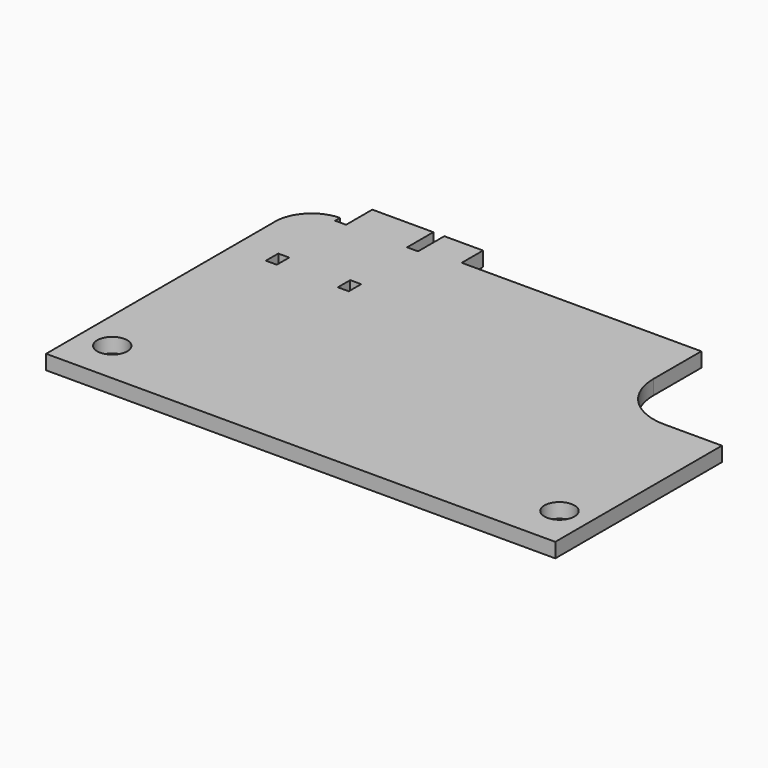
from build123d import *

# Parameters (mm, degrees)
F0_R     = 1.65
F1_DEPTH = 1.6
F2_R     = 4
F3_R     = 6
F4_W     = 1.2
F4_H     = 3.6
F4_H_2   = 1.7
F5_DEPTH = 1.601


with BuildPart() as f1:
    # F0 (on Top) → F1 (new body)
    with BuildSketch(Plane.XY):
        Polygon((0, 35.43), (0, 0), (55.88, 0), (55.88, 22.86), (43.56, 22.86), (43.56, 35.43), (17.27, 35.43), (17.27, 38.35), (4.57, 38.35), (4.57, 35.43), align=None)
        with Locations((3.5, 4.7)):
            Circle(F0_R, mode=Mode.SUBTRACT)
        with Locations((52.58, 4.7)):
            Circle(F0_R, mode=Mode.SUBTRACT)
    extrude(amount=F1_DEPTH)

    # F2
    f2_edges = [f1.edges().sort_by_distance(p)[0] for p in [
        (0, 35.43, 0.8),
    ]]
    fillet(f2_edges, radius=F2_R)

    # F3
    f3_edges = [f1.edges().sort_by_distance(p)[0] for p in [
        (43.56, 22.86, 0.8),
    ]]
    fillet(f3_edges, radius=F3_R)

    # F4 (on face) → F5 (cut, through all)
    with BuildSketch(Plane.XY.offset(1.6)):
        with Locations((4.52, 36.55)):
            Rectangle(F4_W, F4_H)
        with Locations((12.42, 36.55)):
            Rectangle(F4_W, F4_H)
        with Locations((4.52, 26.1)):
            Rectangle(F4_W, F4_H_2)
        with Locations((12.42, 26.1)):
            Rectangle(F4_W, F4_H_2)
    extrude(amount=-F5_DEPTH, mode=Mode.SUBTRACT)


solid = f1.part
